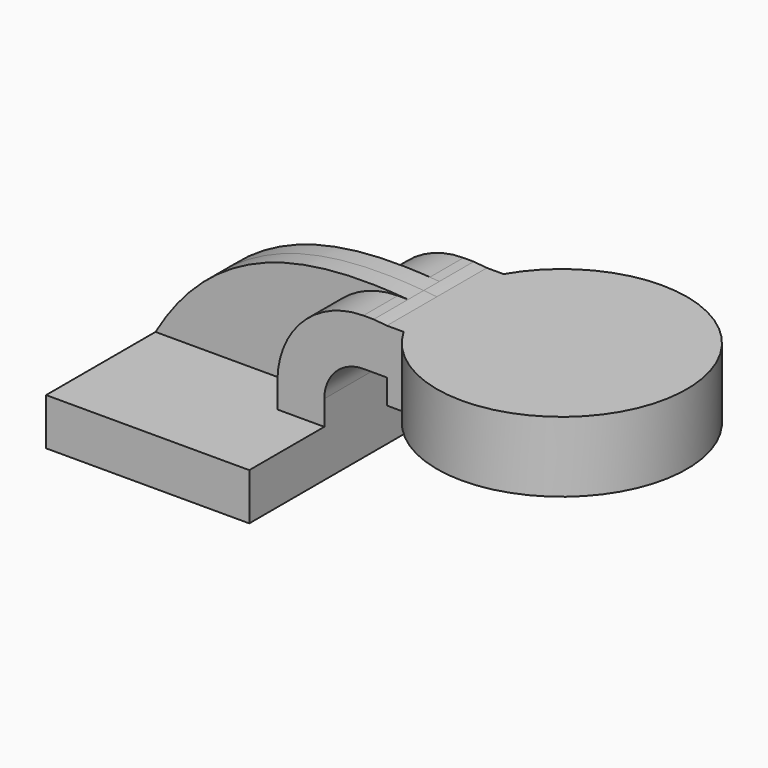
from build123d import *

# Parameters (mm, degrees)
F1_DEPTH = 63.5
F2_DEPTH = 7.9375
F3_DEPTH = 25.4


with BuildPart() as f1:
    # F0 (on Front) → F1 (new body, symmetric)
    with BuildSketch(Plane.XZ):
        Polygon((22.225, 9.525), (-41.275, 9.525), (-41.275, -9.525), (41.275, -9.525), (41.275, 9.525), align=None)
    extrude(amount=F1_DEPTH, both=True)

    # F0 (on Front) → F2 (join, symmetric)
    with BuildSketch(Plane.XZ):
        with BuildLine():
            add(Edge.make_bspline(
                [(-41.275, 9.525), (-17.372467, 50.623456), (19.370141, 58.072404), (61.345564, 54.485139)],
                knots=[0, 0, 0, 0, 112.026415, 112.026415, 112.026415, 112.026415], degree=3))
            Line((-41.275, 9.525), (22.225, 9.525))
            Line((22.225, 9.525), (22.225, 19.560138))
            ThreePointArc((22.225, 19.560138), (32.454295, 44.255843), (57.15, 54.485139))
            Line((57.15, 54.485139), (61.345564, 54.485139))
        make_face()
    extrude(amount=F2_DEPTH, both=True)

    # F0 (on Front) → F3 (join, symmetric)
    with BuildSketch(Plane.XZ):
        with BuildLine():
            Line((22.225, 19.560138), (22.225, 9.525))
            Line((22.225, 9.525), (41.275, 9.525))
            Line((41.275, 9.525), (41.275, 19.560138))
            ThreePointArc((41.275, 19.560138), (45.92468, 30.785458), (57.15, 35.435138))
            Line((57.15, 35.435138), (66.675, 35.435138))
            Line((66.675, 35.435138), (66.675, 53.975))
            add(Edge.make_bspline(
                [(61.345564, 54.485139), (63.112955, 54.334095), (64.889623, 54.163487), (66.675, 53.975)],
                knots=[112.026415, 112.026415, 112.026415, 112.026415, 116.74333, 116.74333, 116.74333, 116.74333], degree=3))
            Line((61.345564, 54.485139), (57.15, 54.485139))
            ThreePointArc((57.15, 54.485139), (32.454295, 44.255843), (22.225, 19.560138))
        make_face()
        Polygon((117.475, 53.975), (66.675, 53.975), (66.675, 35.435138), (66.675, 25.4), (117.475, 25.4), align=None)
    extrude(amount=F3_DEPTH, both=True)

    # F0 (on Front) → F4 (revolve)
    with BuildSketch(Plane.XZ):
        Polygon((117.475, 53.975), (66.675, 53.975), (66.675, 35.435138), (66.675, 25.4), (117.475, 25.4), align=None)
    revolve(axis=Axis((117.475, 0, 39.6875), (0, 0, -1)))


solid = f1.part
